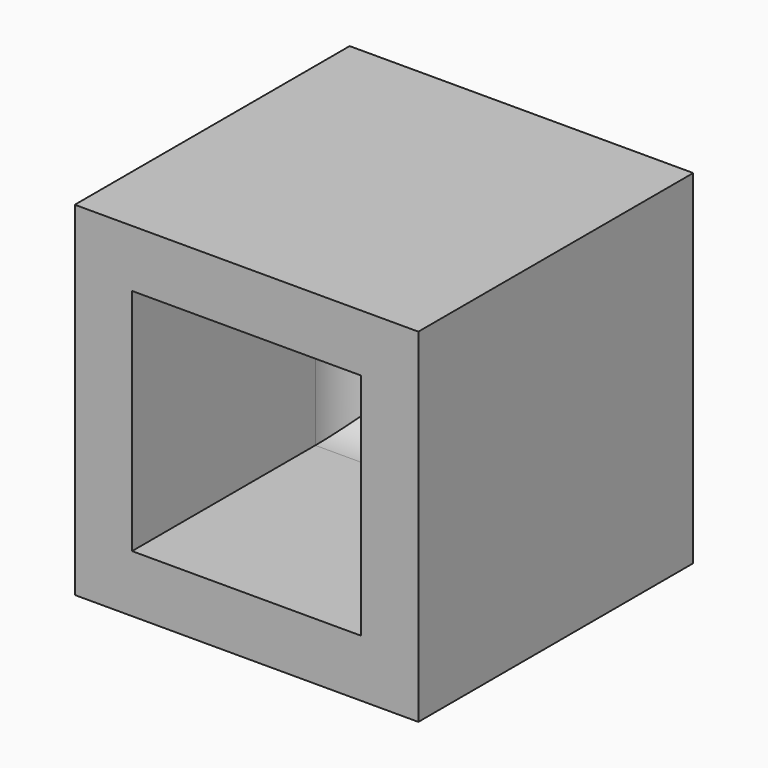
from build123d import *

# Parameters (mm, degrees)
F0_W     = 30
F0_H     = 30
F1_DEPTH = 30
F2_T     = -5
F3_R     = 5


with BuildPart() as f1:
    # F0 (on Front) → F1 (new body)
    with BuildSketch(Plane.XZ):
        with Locations((15, 15)):
            Rectangle(F0_W, F0_H)
    extrude(amount=F1_DEPTH)

    # F2
    f2_openings = [f1.faces().sort_by_distance(p)[0] for p in [
        (15, -30, 15),
    ]]
    offset(amount=F2_T, openings=f2_openings)

    # F3
    f3_edges = [f1.edges().sort_by_distance(p)[0] for p in [
        (5, -5, 15),
        (15, -5, 5),
        (25, -5, 15),
        (15, -5, 25),
    ]]
    fillet(f3_edges, radius=F3_R)


solid = f1.part
